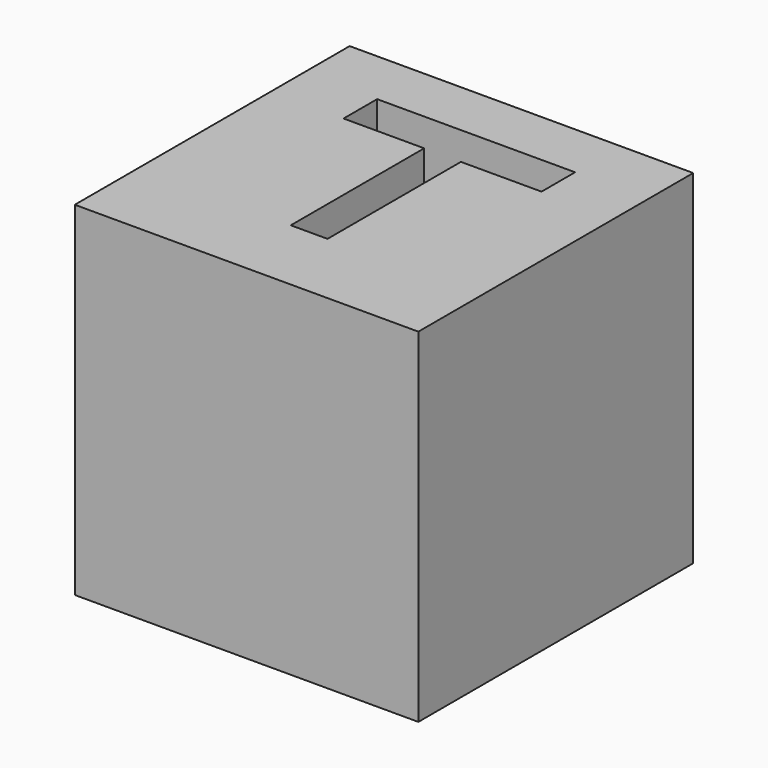
from build123d import *

# Parameters (mm, degrees)
F1_DEPTH = 12.7
F3_DEPTH = 6.35


with BuildPart() as f1:
    # F0 (on Top) → F1 (new body)
    with BuildSketch(Plane.XY):
        Polygon((-6.35, 0), (0, 0), (6.35, 0), (6.35, 12.7), (0, 12.7), (-5.160642, 12.7), (-6.35, 12.7), align=None)
    extrude(amount=F1_DEPTH)

    # F2 (on face) → F3 (cut)
    with BuildSketch(Plane.XY.offset(12.7)):
        Polygon((3.658694, 10.606015), (0, 10.606015), (-3.658694, 10.606015), (-3.658694, 9.05488), (-0.678882, 9.05488), (-0.678882, 2.891159), (0, 2.891159), (0.678882, 2.891159), (0.678882, 9.05488), (3.658694, 9.05488), align=None)
    extrude(amount=-F3_DEPTH, mode=Mode.SUBTRACT)


solid = f1.part
